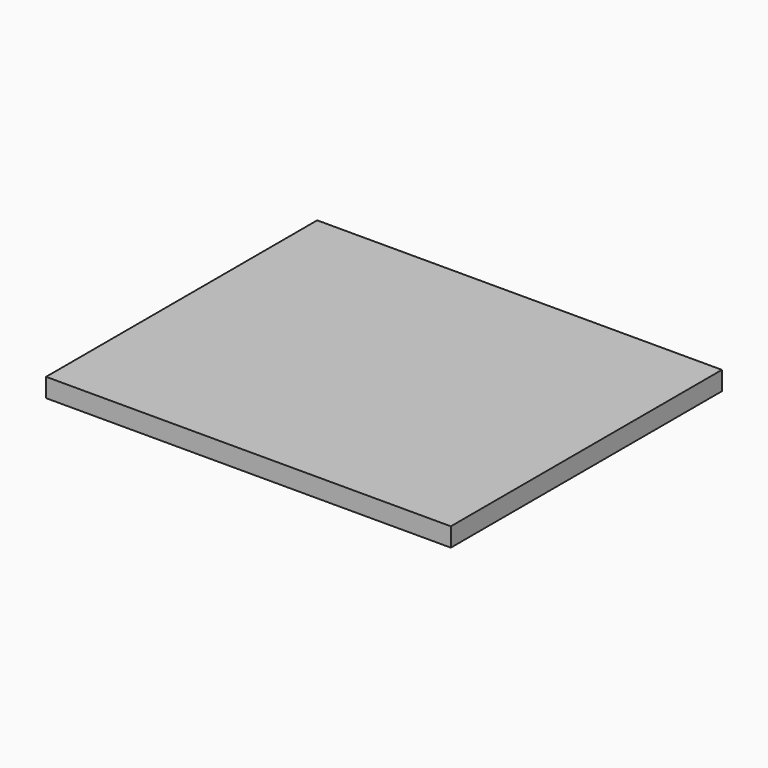
from build123d import *

# Parameters (mm, degrees)
SKETCH_W  = 215
SKETCH_H  = 180
PAD_DEPTH = 10


with BuildPart() as part:
    # Sketch → Pad (new body)
    with BuildSketch(Plane.XY):
        with Locations((-107.5, 90)):
            Rectangle(SKETCH_W, SKETCH_H)
    extrude(amount=PAD_DEPTH)


solid = part.part
